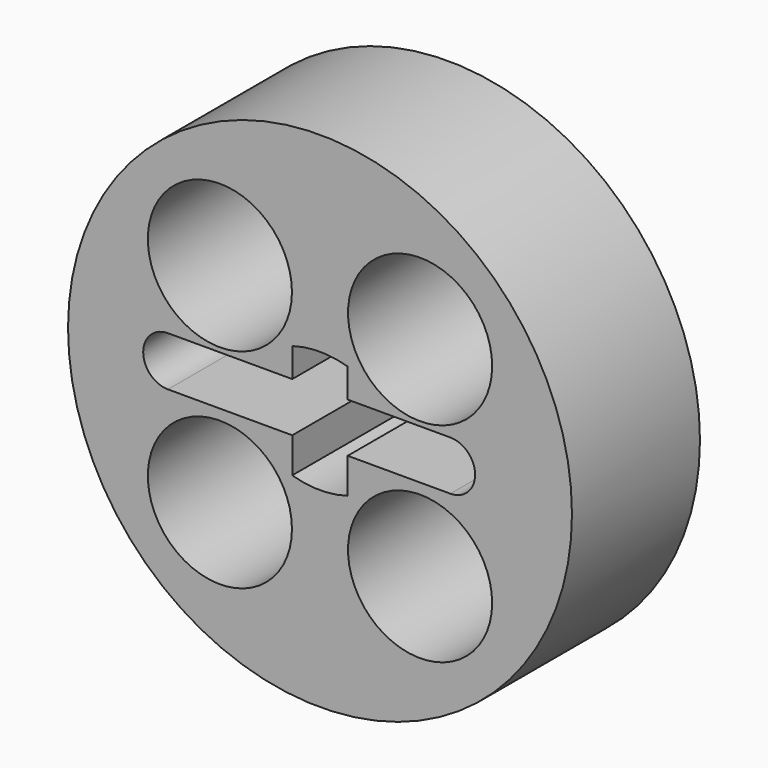
from build123d import *

# Parameters (mm, degrees)
F0_R     = 10
F1_DEPTH = 6.35
F3_DEPTH = 25.4
F5_DEPTH = 25.4
F6_R     = 2.859513
F7_DEPTH = 25.4


with BuildPart() as f1:
    # F0 (on Front) → F1 (new body)
    with BuildSketch(Plane.XZ):
        Circle(F0_R)
    extrude(amount=F1_DEPTH)

    # F2 (on Front) → F3 (cut)
    with BuildSketch(Plane.XZ):
        with BuildLine():
            Line((5.17427, 1.104157), (-6.035211, 1.104157))
            ThreePointArc((-6.035211, 1.104157), (-7.016857, 0.122512), (-6.035211, -0.859134))
            Line((-6.035211, -0.859134), (5.17427, -0.859134))
            ThreePointArc((5.17427, -0.859134), (6.155916, 0.122512), (5.17427, 1.104157))
        make_face()
    extrude(amount=F3_DEPTH, mode=Mode.SUBTRACT)

    # F4 (on Front) → F5 (cut)
    with BuildSketch(Plane.XZ):
        with BuildLine():
            Line((1.099834, -2.258694), (1.099834, 0))
            Line((1.099834, 0), (1.099834, 2.258694))
            ThreePointArc((1.099834, 2.258694), (-0.000652, 2.419633), (-1.101137, 2.258694))
            Line((-1.101137, 2.258694), (-1.101137, 0))
            Line((-1.101137, 0), (-1.101137, -2.258694))
            ThreePointArc((-1.101137, -2.258694), (-0.000652, -2.419633), (1.099834, -2.258694))
        make_face()
    extrude(amount=F5_DEPTH, mode=Mode.SUBTRACT)

    # F6 (on face) → F7 (cut)
    with BuildSketch(Plane.XZ.offset(6.35)):
        with Locations((-3.97266, 4.139036)):
            Circle(F6_R)
        with Locations((-3.97266, -4.139036)):
            Circle(F6_R)
        with Locations((3.972278, 4.138778)):
            Circle(F6_R)
        with Locations((3.971739, -4.139295)):
            Circle(F6_R)
    extrude(amount=-F7_DEPTH, mode=Mode.SUBTRACT)


solid = f1.part
